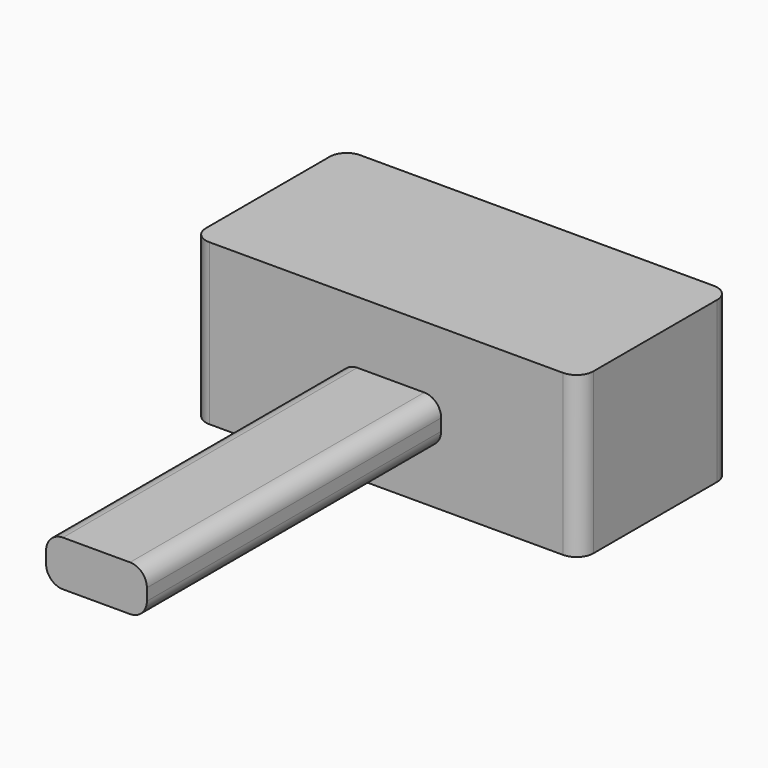
from build123d import *

# Parameters (mm, degrees)
F0_W     = 15.1743106544
F0_H     = 55.376380682
F1_DEPTH = 6.35
F2_DEPTH = 16.256
F3_DEPTH = 0.508
F4_DEPTH = 7.874
F5_R     = 2.54


with BuildPart() as f1:
    # F0 (on Top) → F1 (new body)
    with BuildSketch(Plane.XY):
        with Locations((-0.8868109435, -27.688190341)):
            Rectangle(F0_W, F0_H)
    extrude(amount=F1_DEPTH)

    # F0 (on Top) → F2 (join)
    with BuildSketch(Plane.XY):
        Polygon((-30.742758885, 0), (-8.4739662707, 0), (6.7003443837, 0), (27.5896564126, 0), (27.5896564126, 28.3779297024), (-30.742758885, 28.3779297024), align=None)
    extrude(amount=F2_DEPTH)

    # F3 (add): a face of the model
    f3_faces = [f1.faces().sort_by_distance(p)[0] for p in [
        (-0.8868109435, -27.688190341, 6.35),
    ]]
    extrude(f3_faces, amount=F3_DEPTH)

    # F0 (on Top) → F4 (join)
    with BuildSketch(Plane.XY):
        Polygon((-30.742758885, 0), (-8.4739662707, 0), (6.7003443837, 0), (27.5896564126, 0), (27.5896564126, 28.3779297024), (-30.742758885, 28.3779297024), align=None)
    extrude(amount=-F4_DEPTH)

    # F5
    f5_edges = [f1.edges().sort_by_distance(p)[0] for p in [
        (-8.473966, -27.68819, 0),
        (-8.473966, -27.68819, 6.858),
        (6.700344, -27.68819, 6.858),
        (6.700344, -27.68819, 0),
        (27.589656, 0, 4.191),
        (-30.742759, 0, 4.191),
        (-30.742759, 28.37793, 4.191),
        (27.589656, 28.37793, 4.191),
    ]]
    fillet(f5_edges, radius=F5_R)


solid = f1.part
